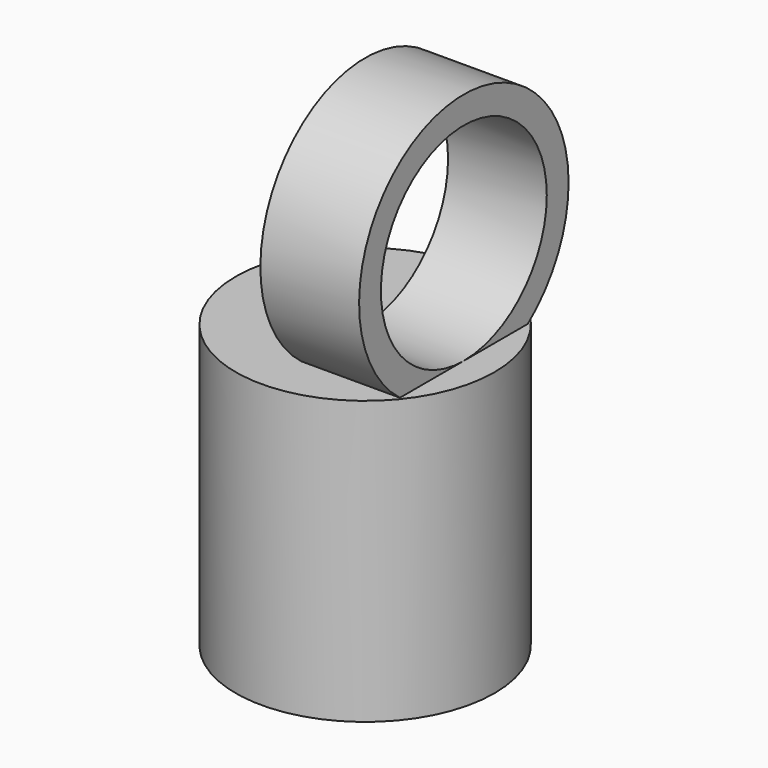
from build123d import *

# Parameters (mm, degrees)
SKETCH001_R   = 30.15
PAD_DEPTH     = 65.85
SKETCH002_R   = 24.15
POCKET_DEPTH  = 53.85
SKETCH003_R   = 30.5
SKETCH003_R_2 = 24.15
PAD001_DEPTH  = 23


with BuildPart() as part:
    # Sketch001 → Pad (new body)
    with BuildSketch(Plane.XY):
        Circle(SKETCH001_R)
    extrude(amount=PAD_DEPTH)

    # Sketch002 (on Face2 of Pad) → Pocket (cut)
    with BuildSketch(Plane(origin=(0, 0, 0), x_dir=(1, 0, 0), z_dir=(0, 0, -1))):
        Circle(SKETCH002_R)
    extrude(amount=-POCKET_DEPTH, mode=Mode.SUBTRACT)

    # Sketch003 → Pad001 (join)
    with BuildSketch(Plane.YZ):
        with Locations((0, 90)):
            Circle(SKETCH003_R)
        with Locations((0, 90)):
            Circle(SKETCH003_R_2, mode=Mode.SUBTRACT)
    extrude(amount=PAD001_DEPTH)


solid = part.part
